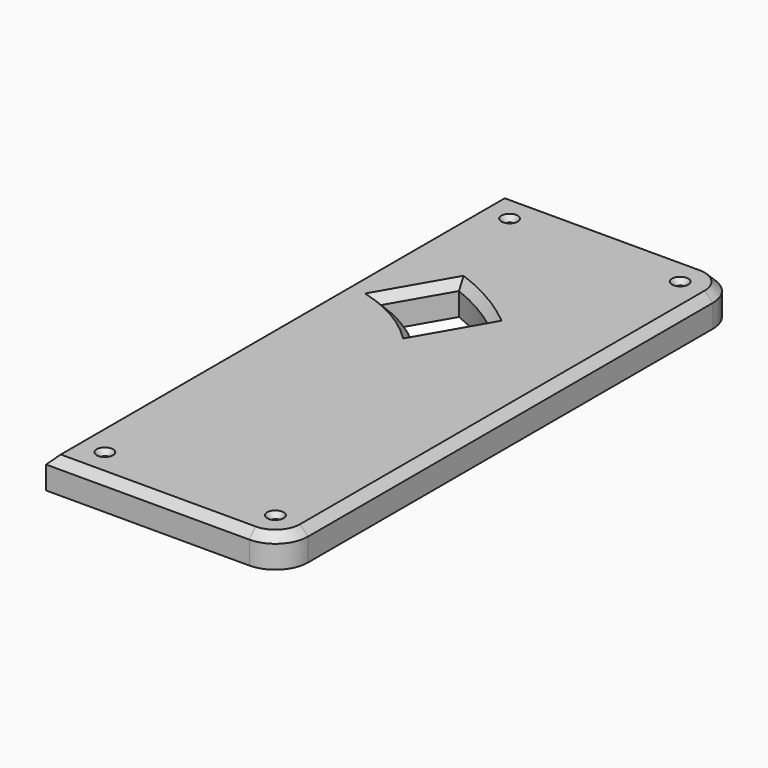
from build123d import *

# Parameters (mm, degrees)
SKETCH024_W     = 144.5
SKETCH024_H     = 350
PAD017_DEPTH    = 19
FILLET007_R     = 20
SKETCH025_R     = 2
POCKET015_DEPTH = 19.001
CHAMFER005_SIZE = 5
POCKET020_DEPTH = 19.001
CHAMFER006_SIZE = 5
CHAMFER007_SIZE = 3
SKETCH045_W     = 131
SKETCH045_H     = 20
POCKET029_DEPTH = 14


with BuildPart() as part:
    # Sketch024 → Pad017 (new body)
    with BuildSketch(Plane.XY):
        with Locations((307.25, 41.2)):
            Rectangle(SKETCH024_W, SKETCH024_H)
    extrude(amount=PAD017_DEPTH)

    # Fillet007
    fillet007_edges = [part.edges().sort_by_distance(p)[0] for p in [
        (379.5, 216.2, 9.5),
        (379.5, -133.8, 9.5),
    ]]
    fillet(fillet007_edges, radius=FILLET007_R)

    # Sketch025 (on Face5 of Fillet007) → Pocket015 (cut, through all)
    with BuildSketch(Plane.XY.offset(19)):
        with Locations((359.5, 196.2)):
            Circle(SKETCH025_R)
        with Locations((359.5, -113.8)):
            Circle(SKETCH025_R)
        with Locations((255, -113.8)):
            Circle(SKETCH025_R)
        with Locations((255, 196.2)):
            Circle(SKETCH025_R)
    extrude(amount=-POCKET015_DEPTH, mode=Mode.SUBTRACT)

    # Chamfer005
    chamfer005_edges = [part.edges().sort_by_distance(p)[0] for p in [
        (297.25, 216.2, 19),
        (235, 41.2, 19),
    ]]
    chamfer(chamfer005_edges, length=CHAMFER005_SIZE)

    # Sketch030 (on Face9 of Chamfer005) → Pocket020 (cut, through all)
    with BuildSketch(Plane.XY.offset(19)):
        with BuildLine():
            Line((256.961524, 95.358984), (276.961524, 130))
            ThreePointArc((311.60254, 110), (295, 121.243557), (276.961524, 130))
            Line((311.60254, 110), (291.60254, 75.358984))
            ThreePointArc((291.60254, 75.358984), (275.286367, 87.098543), (256.961524, 95.358984))
        make_face()
    extrude(amount=-POCKET020_DEPTH, mode=Mode.SUBTRACT)

    # Chamfer006
    chamfer006_edges = [part.edges().sort_by_distance(p)[0] for p in [
        (295, 121.243557, 19),
        (266.961524, 112.679492, 19),
        (275.286367, 87.098543, 19),
        (301.60254, 92.679492, 19),
    ]]
    chamfer(chamfer006_edges, length=CHAMFER006_SIZE)

    # Chamfer007
    chamfer007_edges = [part.edges().sort_by_distance(p)[0] for p in [
        (253, 196.2, 19),
        (357.5, 196.2, 19),
        (357.5, -113.8, 19),
        (253, -113.8, 19),
    ]]
    chamfer(chamfer007_edges, length=CHAMFER007_SIZE)

    # Sketch045 (on Face30 of Chamfer007) → Pocket029 (cut)
    with BuildSketch(Plane(origin=(0, 0, 0), x_dir=(1, 0, 0), z_dir=(0, 0, -1))):
        with Locations((300.5, 98.8)):
            Rectangle(SKETCH045_W, SKETCH045_H)
    extrude(amount=-POCKET029_DEPTH, mode=Mode.SUBTRACT)


with BuildPart() as part_1:
    # Body013 placement: moved
    add(part.part.moved(Location((0, 0, 10))))


solid = part_1.part
